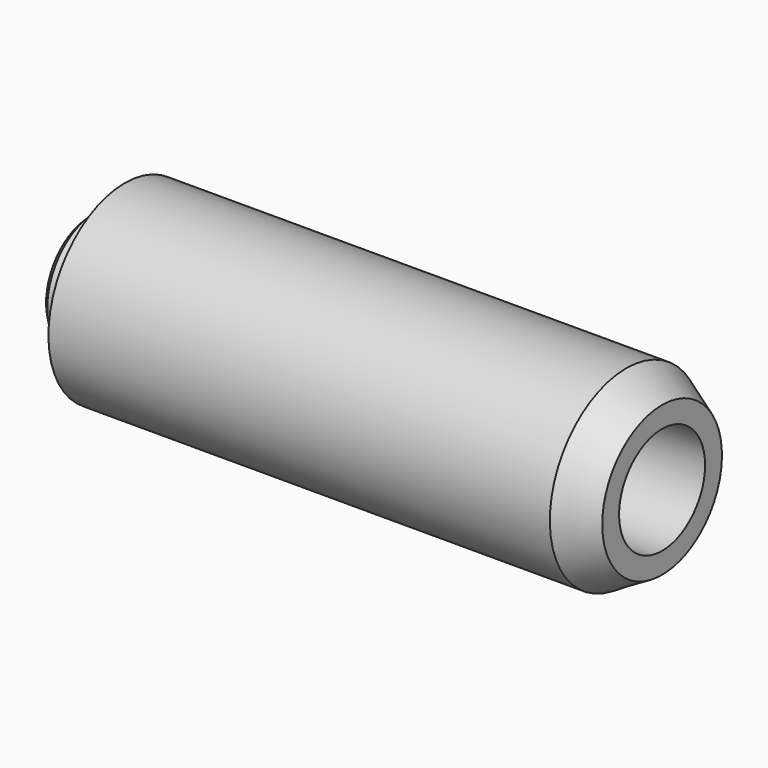
from build123d import *

# Parameters (mm, degrees)
F0_W           = 3
F0_H           = 4.5
F3_D           = 5.5
F3_CBORE_D     = 9
F3_CBORE_DEPTH = 7


with BuildPart() as f1:
    # F0 (on Front) → F1 (revolve)
    with BuildSketch(Plane.XZ):
        Polygon((-71.96031, 2.75), (-71.96031, 0), (-67.96031, 0), (-67.96031, 4.5), (-71.96031, 4.5), align=None)
        Polygon((-67.96031, 8), (-67.96031, 4.5), (-64.96031, 4.5), (-64.96031, 6.267949), align=None)
        with Locations((-66.46031, 2.25)):
            Rectangle(F0_W, F0_H)
        Polygon((-112.46031, 0), (-109.96031, 0), (-109.96031, 2.75), (-109.96031, 5), (-112.46031, 5), align=None)
        Polygon((-109.96031, 2.75), (-71.96031, 2.75), (-71.96031, 4.5), (-67.96031, 4.5), (-67.96031, 8), (-109.96031, 8), (-109.96031, 5), align=None)
        Polygon((-112.96031, 0), (-112.46031, 0), (-112.46031, 5), (-112.96031, 4.5), align=None)
        Polygon((-81.96031, 0), (-71.96031, 0), (-71.96031, 2.75), (-109.96031, 2.75), (-109.96031, 0), align=None)
    revolve(axis=Axis((-88.96031, 0, 0), (-1, 0, 0)))

    # F3 (through all)
    with Locations(Plane.YZ.offset(-64.96031)):
        with Locations((0, 0)):
            CounterBoreHole(F3_D / 2, F3_CBORE_D / 2, F3_CBORE_DEPTH)


solid = f1.part
